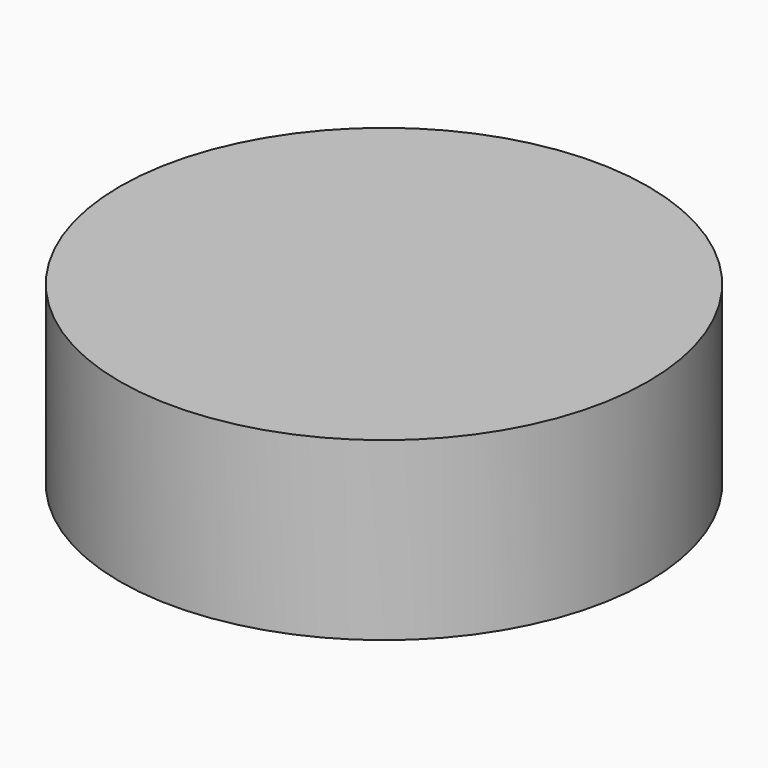
from build123d import *

# Parameters (mm, degrees)
F0_R     = 28.575
F1_DEPTH = 19.05
F2_R     = 4.7625
F3_DEPTH = 9.525
F4_R     = 4.7625
F5_DEPTH = 9.525


with BuildPart() as f1:
    # F0 (on Top) → F1 (new body)
    with BuildSketch(Plane.XY):
        Circle(F0_R)
    extrude(amount=F1_DEPTH)

    # F2 (on Top) → F3 (join)
    with BuildSketch(Plane.XY):
        Circle(F2_R)
    extrude(amount=F3_DEPTH)

    # F4 (on face) → F5 (cut)
    with BuildSketch(Plane(origin=(0, 0, 0), x_dir=(1, 0, 0), z_dir=(0, 0, -1))):
        Circle(F4_R)
    extrude(amount=-F5_DEPTH, mode=Mode.SUBTRACT)


solid = f1.part
